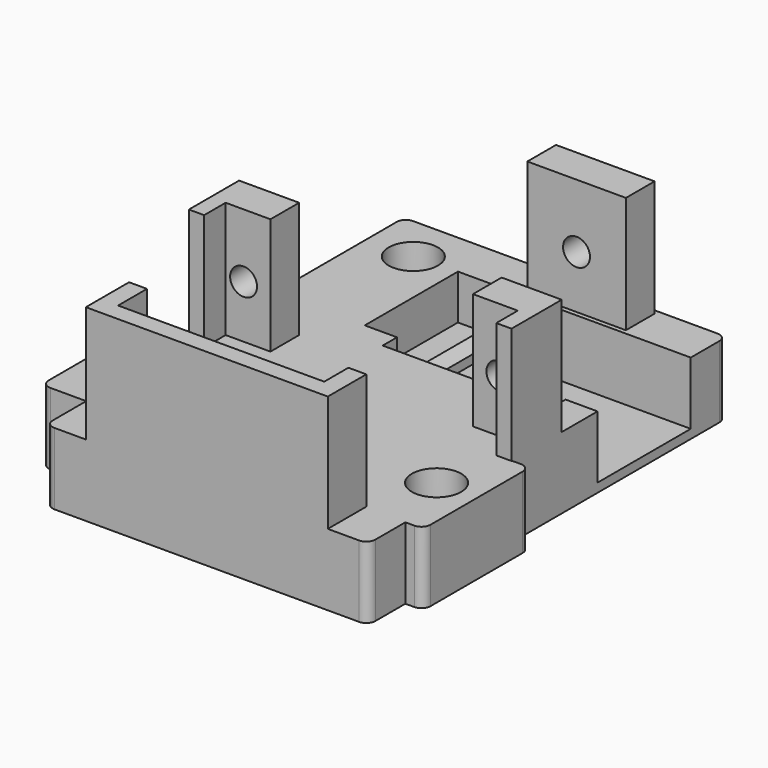
from build123d import *

# Parameters (mm, degrees)
SKETCH_W        = 36
SKETCH_H        = 50
PAD_DEPTH       = 8
PAD001_DEPTH    = 13
SKETCH004_W     = 11
SKETCH004_H     = 4
PAD003_DEPTH    = 13
PAD002_DEPTH    = 13
SKETCH005_W     = 25.977524
SKETCH005_H     = 13
POCKET_DEPTH    = 5
SKETCH006_R     = 1.5
POCKET001_DEPTH = 5
SKETCH007_R     = 1.5
POCKET002_DEPTH = 5
CHAMFER_SIZE    = 2
CHAMFER001_SIZE = 2
CHAMFER002_SIZE = 3
CHAMFER003_SIZE = 2
SKETCH008_W     = 23.210894
SKETCH008_H     = 13
POCKET003_DEPTH = 2
CHAMFER004_SIZE = 1
SKETCH009_W     = 14.868066
SKETCH009_H     = 8
PAD004_DEPTH    = 2
FILLET_R        = 1
FILLET001_R     = 1
FILLET002_R     = 1
SKETCH011_W     = 14.090648
SKETCH011_H     = 8
PAD005_DEPTH    = 5
FILLET003_R     = 1
SKETCH012_R     = 1.5
POCKET004_DEPTH = 8.001
SKETCH013_R     = 2.75
POCKET005_DEPTH = 3
SKETCH014_W     = 18.80099
SKETCH014_H     = 2
POCKET006_DEPTH = 7


with BuildPart() as pad003:
    # Sketch → Pad (new body)
    with BuildSketch(Plane.XY):
        Rectangle(SKETCH_W, SKETCH_H)
    extrude(amount=PAD_DEPTH)

    # Sketch002 → Pad001 (new body)
    with BuildSketch(Plane.XY.offset(8)):
        Polygon((-13.5, -25), (13.5, -25), (13.5, -19.629501), (11.5, -19.629501), (11.5, -23), (-11.5, -23), (-11.5, -18.969727), (-13.5, -18.969727), align=None)
    extrude(amount=PAD001_DEPTH)

    # Sketch004 → Pad003 (new body)
    with BuildSketch(Plane.XY.offset(8)):
        with Locations((4.8652, 22.5)):
            Rectangle(SKETCH004_W, SKETCH004_H)
    extrude(amount=PAD003_DEPTH)


with BuildPart() as pocket006:
    # Sketch003 → Pad002 (new body)
    with BuildSketch(Plane.XY.offset(8)):
        Polygon((11.3, 2), (18, 2), (18, -5), (16.3, -5), (16.3, -2), (11.3, -2), align=None)
        Polygon((-11.3, 2), (-18, 2), (-18, -5), (-16.3, -5), (-16.3, -2), (-11.3, -2), align=None)
    extrude(amount=PAD002_DEPTH)

    # Fusion: union Pad003
    add(pad003.part)

    # Sketch005 → Pocket (cut)
    with BuildSketch(Plane.XY.offset(8)):
        with Locations((5.011238, 13.5)):
            Rectangle(SKETCH005_W, SKETCH005_H)
    extrude(amount=-POCKET_DEPTH, mode=Mode.SUBTRACT)

    # Sketch006 → Pocket001 (cut)
    with BuildSketch(Plane(origin=(0, 2, 0), x_dir=(-1, 0, 0), z_dir=(0, 1, 0))):
        with Locations((-14.3, 13.9)):
            Circle(SKETCH006_R)
        with Locations((14.3, 13.9)):
            Circle(SKETCH006_R)
    extrude(amount=-POCKET001_DEPTH, mode=Mode.SUBTRACT)

    # Sketch007 → Pocket002 (cut)
    with BuildSketch(Plane(origin=(0, 24.5, 0), x_dir=(-1, 0, 0), z_dir=(0, 1, 0))):
        with Locations((-4.854515, 13.9)):
            Circle(SKETCH007_R)
    extrude(amount=-POCKET002_DEPTH, mode=Mode.SUBTRACT)

    # Chamfer
    chamfer_edges = [pocket006.edges().sort_by_distance(p)[0] for p in [
        (18, 13.5, 3),
    ]]
    chamfer(chamfer_edges, length=CHAMFER_SIZE)

    # Chamfer001
    chamfer001_edges = [pocket006.edges().sort_by_distance(p)[0] for p in [
        (16, 13.5, 3),
    ]]
    chamfer(chamfer001_edges, length=CHAMFER001_SIZE)

    # Chamfer002
    chamfer002_edges = [pocket006.edges().sort_by_distance(p)[0] for p in [
        (14, 13.5, 3),
    ]]
    chamfer(chamfer002_edges, length=CHAMFER002_SIZE)

    # Chamfer003
    chamfer003_edges = [pocket006.edges().sort_by_distance(p)[0] for p in [
        (11, 13.5, 3),
    ]]
    chamfer(chamfer003_edges, length=CHAMFER003_SIZE)

    # Sketch008 → Pocket003 (cut)
    with BuildSketch(Plane.XY.offset(3)):
        with Locations((7.17125, 13.5)):
            Rectangle(SKETCH008_W, SKETCH008_H)
    extrude(amount=-POCKET003_DEPTH, mode=Mode.SUBTRACT)

    # Chamfer004
    chamfer004_edges = [pocket006.edges().sort_by_distance(p)[0] for p in [
        (-4.434197, 13.5, 3),
    ]]
    chamfer(chamfer004_edges, length=CHAMFER004_SIZE)

    # Sketch009 → Pad004 (new body)
    with BuildSketch(Plane.YZ.offset(18)):
        with Locations((-12.37453, 4)):
            Rectangle(SKETCH009_W, SKETCH009_H)
    extrude(amount=PAD004_DEPTH)

    # Fillet
    fillet_edges = [pocket006.edges().sort_by_distance(p)[0] for p in [
        (20, -19.808563, 4),
        (20, -4.940497, 4),
    ]]
    fillet(fillet_edges, radius=FILLET_R)

    # Fillet001
    fillet001_edges = [pocket006.edges().sort_by_distance(p)[0] for p in [
        (18, -25, 4),
        (18, 25, 4),
    ]]
    fillet(fillet001_edges, radius=FILLET001_R)

    # Fillet002
    fillet002_edges = [pocket006.edges().sort_by_distance(p)[0] for p in [
        (-18, 25, 4),
        (-18, -25, 4),
    ]]
    fillet(fillet002_edges, radius=FILLET002_R)

    # Sketch011 → Pad005 (new body)
    with BuildSketch(Plane(origin=(-18, 0, 0), x_dir=(0, -1, 0), z_dir=(-1, 0, 0))):
        with Locations((12.277352, 4)):
            Rectangle(SKETCH011_W, SKETCH011_H)
    extrude(amount=PAD005_DEPTH)

    # Fillet003
    fillet003_edges = [pocket006.edges().sort_by_distance(p)[0] for p in [
        (-23, -5.232028, 4),
        (-23, -19.322676, 4),
    ]]
    fillet(fillet003_edges, radius=FILLET003_R)

    # Sketch012 → Pocket004 (cut, through all)
    with BuildSketch(Plane.XY.offset(8)):
        with Locations((-17.58419, -12.3304)):
            Circle(SKETCH012_R)
        with Locations((15.481561, -12.3304)):
            Circle(SKETCH012_R)
        with Locations((-12.798991, 19.810022)):
            Circle(SKETCH012_R)
    extrude(amount=-POCKET004_DEPTH, mode=Mode.SUBTRACT)

    # Sketch013 → Pocket005 (cut)
    with BuildSketch(Plane.XY.offset(8)):
        with Locations((-17.584191, -12.2855)):
            Circle(SKETCH013_R)
        with Locations((15.465243, -12.2855)):
            Circle(SKETCH013_R)
        with Locations((-12.792856, 19.795126)):
            Circle(SKETCH013_R)
    extrude(amount=-POCKET005_DEPTH, mode=Mode.SUBTRACT)

    # Sketch014 → Pocket006 (cut)
    with BuildSketch(Plane.XY.offset(8)):
        with Locations((5.024045, 6)):
            Rectangle(SKETCH014_W, SKETCH014_H)
    extrude(amount=-POCKET006_DEPTH, mode=Mode.SUBTRACT)


solid = pocket006.part
